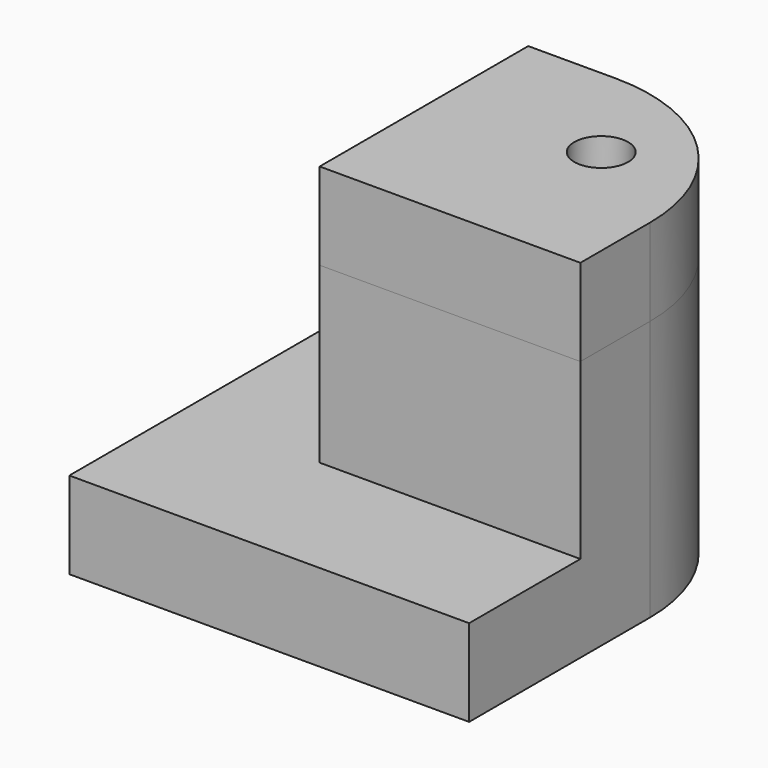
from build123d import *

# Parameters (mm, degrees)
PAD_DEPTH       = 10
SKETCH001_R     = 1.55
POCKET_DEPTH    = 5
SKETCH002_R     = 1.55
POCKET001_DEPTH = 5
POCKET002_DEPTH = 3
POCKET003_DEPTH = 3
CHAMFER_SIZE    = 2.3
PAD001_DEPTH    = 10
SKETCH006_R     = 1.55
POCKET007_DEPTH = 5
SKETCH009_R     = 1.55
POCKET005_DEPTH = 5
POCKET006_DEPTH = 3
POCKET004_DEPTH = 3
CHAMFER001_SIZE = 2.3
SKETCH010_R     = 1.55
PAD002_DEPTH    = 5
POCKET008_DEPTH = 3
PAD003_DEPTH    = 10
PAD004_DEPTH    = 5
SKETCH014_R     = 1.6
POCKET009_DEPTH = 20
SKETCH015_R     = 3
POCKET010_DEPTH = 8


with BuildPart() as body:
    # Sketch → Pad (new body)
    with BuildSketch(Plane.XY):
        Polygon((0, 15), (0, 0), (15, 0), (15, 5), (5, 5), (5, 15), align=None)
    extrude(amount=PAD_DEPTH)

    # Sketch001 (on Face4 of Pad) → Pocket (cut)
    with BuildSketch(Plane(origin=(0, 5, 0), x_dir=(-1, 0, 0), z_dir=(0, 1, 0))):
        with Locations((-10, 5)):
            Circle(SKETCH001_R)
    extrude(amount=-POCKET_DEPTH, mode=Mode.SUBTRACT)

    # Sketch002 (on Face6 of Pocket) → Pocket001 (cut)
    with BuildSketch(Plane.YZ.offset(5)):
        with Locations((10, 5)):
            Circle(SKETCH002_R)
    extrude(amount=-POCKET001_DEPTH, mode=Mode.SUBTRACT)

    # Sketch003 (on Face7 of Pocket001) → Pocket002 (cut)
    with BuildSketch(Plane.YZ.offset(5)):
        Polygon((10, 2), (12.598076, 3.5), (12.598076, 6.5), (10, 8), (7.401924, 6.5), (7.401924, 3.5), align=None)
    extrude(amount=-POCKET002_DEPTH, mode=Mode.SUBTRACT)

    # Sketch004 (on Face9 of Pocket002) → Pocket003 (cut)
    with BuildSketch(Plane(origin=(0, 5, 0), x_dir=(-1, 0, 0), z_dir=(0, 1, 0))):
        Polygon((-7.401924, 3.5), (-7.401924, 6.5), (-10, 8), (-12.598076, 6.5), (-12.598076, 3.5), (-10, 2), align=None)
    extrude(amount=-POCKET003_DEPTH, mode=Mode.SUBTRACT)

    # Chamfer
    chamfer_edges = [body.edges().sort_by_distance(p)[0] for p in [
        (5, 5, 5),
    ]]
    chamfer(chamfer_edges, length=CHAMFER_SIZE)


with BuildPart() as body001:
    # Sketch008 → Pad001 (new body)
    with BuildSketch(Plane.XY):
        Polygon((0, 15), (0, 0), (15, 0), (15, 5), (5, 5), (5, 15), align=None)
    extrude(amount=PAD001_DEPTH)

    # Sketch006 (on Face4 of Pad001) → Pocket007 (cut)
    with BuildSketch(Plane(origin=(0, 5, 0), x_dir=(-1, 0, 0), z_dir=(0, 1, 0))):
        with Locations((-10, 5)):
            Circle(SKETCH006_R)
    extrude(amount=-POCKET007_DEPTH, mode=Mode.SUBTRACT)

    # Sketch009 (on Face6 of Pocket007) → Pocket005 (cut)
    with BuildSketch(Plane.YZ.offset(5)):
        with Locations((10, 5)):
            Circle(SKETCH009_R)
    extrude(amount=-POCKET005_DEPTH, mode=Mode.SUBTRACT)

    # Sketch005 (on Face7 of Pocket005) → Pocket006 (cut)
    with BuildSketch(Plane.YZ.offset(5)):
        Polygon((10, 2), (12.598076, 3.5), (12.598076, 6.5), (10, 8), (7.401924, 6.5), (7.401924, 3.5), align=None)
    extrude(amount=-POCKET006_DEPTH, mode=Mode.SUBTRACT)

    # Sketch007 (on Face9 of Pocket006) → Pocket004 (cut)
    with BuildSketch(Plane(origin=(0, 5, 0), x_dir=(-1, 0, 0), z_dir=(0, 1, 0))):
        Polygon((-7.401924, 3.5), (-7.401924, 6.5), (-10, 8), (-12.598076, 6.5), (-12.598076, 3.5), (-10, 2), align=None)
    extrude(amount=-POCKET004_DEPTH, mode=Mode.SUBTRACT)

    # Chamfer001
    chamfer001_edges = [body001.edges().sort_by_distance(p)[0] for p in [
        (5, 5, 5),
    ]]
    chamfer(chamfer001_edges, length=CHAMFER001_SIZE)

    # Sketch010 (on Face9 of Chamfer001) → Pad002 (join)
    with BuildSketch(Plane.XY.offset(10)):
        with BuildLine():
            Line((0, 0), (0, 15))
            Line((0, 15), (5, 15))
            ThreePointArc((15, 5), (12.071068, 12.071068), (5, 15))
            Line((15, 5), (15, 0))
            Line((15, 0), (0, 0))
        make_face()
        with Locations((9, 9)):
            Circle(SKETCH010_R, mode=Mode.SUBTRACT)
    extrude(amount=PAD002_DEPTH)

    # Sketch011 (on Face9 of Pad002) → Pocket008 (cut)
    with BuildSketch(Plane(origin=(0, 0, 10), x_dir=(1, 0, 0), z_dir=(0, 0, -1))):
        Polygon((9.776457, -11.897777), (11.897777, -9.776457), (11.12132, -6.87868), (8.223543, -6.102223), (6.102223, -8.223543), (6.87868, -11.12132), align=None)
    extrude(amount=-POCKET008_DEPTH, mode=Mode.SUBTRACT)


with BuildPart() as body002:
    # Sketch012 → Pad003 (new body)
    with BuildSketch(Plane.XY):
        with BuildLine():
            Line((0, 15), (0, 0))
            Line((0, 0), (15, 0))
            Line((15, 0), (15, 5))
            ThreePointArc((15, 5), (12.071068, 12.071068), (5, 15))
            Line((5, 15), (0, 15))
        make_face()
    extrude(amount=PAD003_DEPTH)

    # Sketch013 (on Face6 of Pad003) → Pad004 (join)
    with BuildSketch(Plane(origin=(0, 0, 0), x_dir=(1, 0, 0), z_dir=(0, 0, -1))):
        with BuildLine():
            Line((-8, 8), (15, 8))
            Line((15, 8), (15, -5))
            ThreePointArc((5, -15), (12.071068, -12.071068), (15, -5))
            Line((-8, -15), (5, -15))
            Line((-8, 8), (-8, -15))
        make_face()
    extrude(amount=PAD004_DEPTH)

    # Sketch014 (on Face5 of Pad004) → Pocket009 (cut)
    with BuildSketch(Plane.XY.offset(10)):
        with Locations((9, 9)):
            Circle(SKETCH014_R)
    extrude(amount=-POCKET009_DEPTH, mode=Mode.SUBTRACT)

    # Sketch015 (on Face14 of Pocket009) → Pocket010 (cut)
    with BuildSketch(Plane(origin=(0, 0, -5), x_dir=(1, 0, 0), z_dir=(0, 0, -1))):
        with Locations((9, -9)):
            Circle(SKETCH015_R)
    extrude(amount=-POCKET010_DEPTH, mode=Mode.SUBTRACT)


solid = Compound([body.part, body001.part, body002.part])
